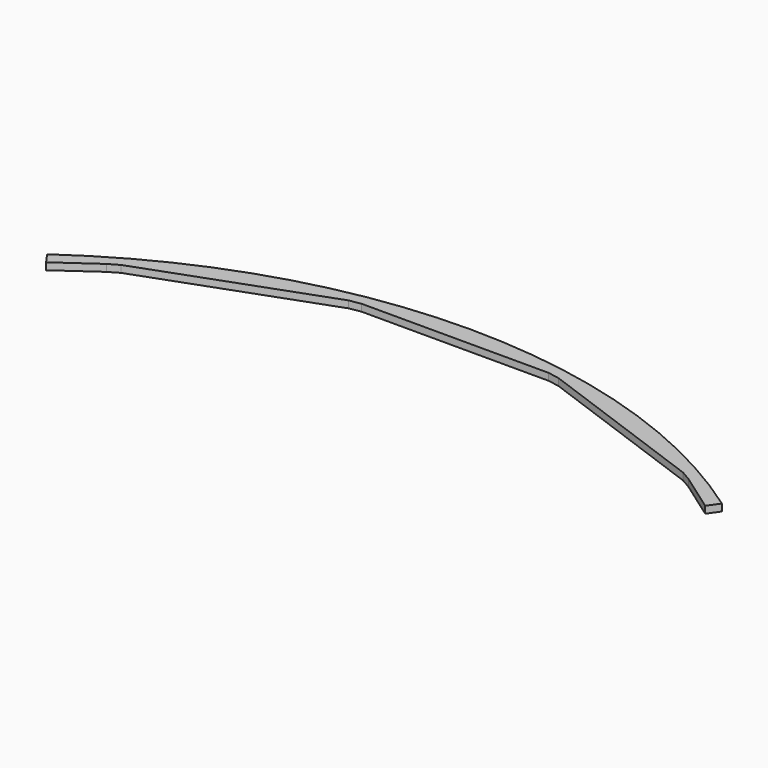
from build123d import *

# Parameters (mm, degrees)
F1_DEPTH = 3


with BuildPart() as f1:
    # F0 (on Top) → F1 (new body)
    with BuildSketch(Plane.XY):
        with BuildLine():
            Line((-144.526421, 203.990474), (-141.162316, 199.241011))
            Line((-141.162316, 199.241011), (-124.665064, 210.926224))
            Line((-124.665064, 210.926224), (-120.334936, 213.426224))
            Line((-120.334936, 213.426224), (-45.005823, 240.843779))
            Line((-45.005823, 240.843779), (-40.081784, 241.71202))
            Line((-40.081784, 241.71202), (40.081784, 241.71202))
            Line((40.081784, 241.71202), (45.005823, 240.843779))
            Line((45.005823, 240.843779), (120.334936, 213.426224))
            Line((120.334936, 213.426224), (124.665064, 210.926224))
            Line((124.665064, 210.926224), (141.162316, 199.241011))
            Line((141.162316, 199.241011), (144.526421, 203.990474))
            ThreePointArc((144.526421, 203.990474), (0, 250), (-144.526421, 203.990474))
        make_face()
    extrude(amount=F1_DEPTH)


solid = f1.part
